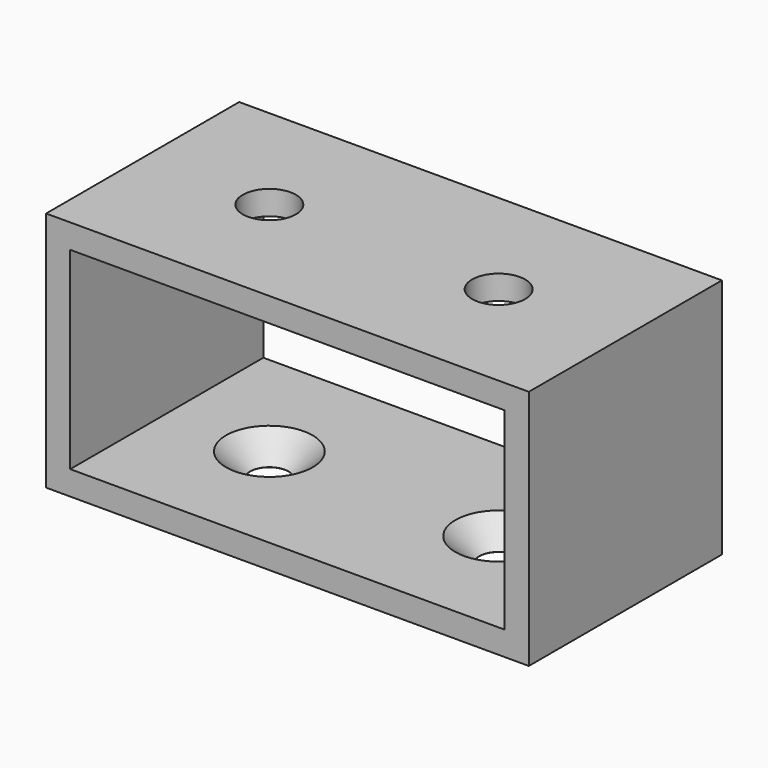
from build123d import *

# Parameters (mm, degrees)
SKETCH_W          = 50
SKETCH_H          = 25
PAD_DEPTH         = 25
SKETCH001_W       = 45
SKETCH001_H       = 20
POCKET_DEPTH      = 0.001
POCKET_DEPTH_BACK = 25.001
SKETCH002_R       = 2.75
POCKET001_DEPTH   = 3.5
SKETCH003_R       = 2
POCKET002_DEPTH   = 2.5
CHAMFER_SIZE      = 2.485


with BuildPart() as part:
    # Sketch → Pad (new body)
    with BuildSketch(Plane.XZ):
        Rectangle(SKETCH_W, SKETCH_H)
    extrude(amount=PAD_DEPTH)

    # Sketch001 → Pocket (cut, two sides)
    with BuildSketch(Plane.XZ) as pocket_sk:
        Rectangle(SKETCH001_W, SKETCH001_H)
    extrude(amount=-POCKET_DEPTH, mode=Mode.SUBTRACT)
    extrude(pocket_sk.sketch, amount=POCKET_DEPTH_BACK, mode=Mode.SUBTRACT)

    # Sketch002 (on DatumPlane) → Pocket001 (cut)
    with BuildSketch(Plane(origin=(0, 0, 12.5), x_dir=(-1, 0, 0), z_dir=(0, 0, 1))):
        with Locations((-11.875, 12.5)):
            Circle(SKETCH002_R)
        with Locations((11.875, 12.5)):
            Circle(SKETCH002_R)
    extrude(amount=-POCKET001_DEPTH, mode=Mode.SUBTRACT)

    # Sketch003 (on DatumPlane) → Pocket002 (cut)
    with BuildSketch(Plane(origin=(0, 0, -10), x_dir=(-1, 0, 0), z_dir=(0, 0, 1))):
        with Locations((-11.875, 12.5)):
            Circle(SKETCH003_R)
        with Locations((11.875, 12.5)):
            Circle(SKETCH003_R)
    extrude(amount=-POCKET002_DEPTH, mode=Mode.SUBTRACT)

    # Chamfer
    chamfer_edges = [part.edges().sort_by_distance(p)[0] for p in [
        (-9.875, -12.5, -10),
        (13.875, -12.5, -10),
    ]]
    chamfer(chamfer_edges, length=CHAMFER_SIZE)


solid = part.part
